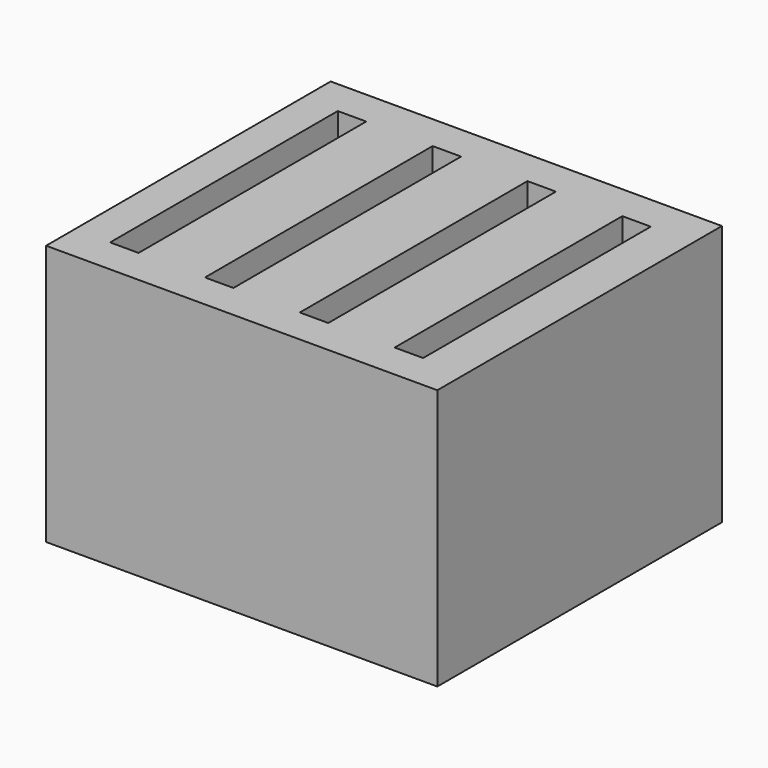
from build123d import *

# Parameters (mm, degrees)
BOX_W        = 2.4
BOX_H        = 24
BOX_DEPTH    = 22
BOX001_W     = 2.4
BOX001_H     = 24
BOX001_DEPTH = 22
BOX002_W     = 2.4
BOX002_H     = 24
BOX002_DEPTH = 22
BOX003_W     = 2.4
BOX003_H     = 24
BOX003_DEPTH = 22
BOX004_W     = 33
BOX004_H     = 30
BOX004_DEPTH = 22


with BuildPart() as slot:
    # Box → Box (new body)
    with BuildSketch(Plane.XY):
        with Locations((1.2, 12)):
            Rectangle(BOX_W, BOX_H)
    extrude(amount=BOX_DEPTH)


with BuildPart() as slot001:
    # Box001 → Box001 (new body)
    with BuildSketch(Plane(origin=(8, 0, 0), x_dir=(1, 0, 0), z_dir=(0, 0, 1))):
        with Locations((1.2, 12)):
            Rectangle(BOX001_W, BOX001_H)
    extrude(amount=BOX001_DEPTH)


with BuildPart() as slot002:
    # Box002 → Box002 (new body)
    with BuildSketch(Plane(origin=(16, 0, 0), x_dir=(1, 0, 0), z_dir=(0, 0, 1))):
        with Locations((1.2, 12)):
            Rectangle(BOX002_W, BOX002_H)
    extrude(amount=BOX002_DEPTH)


with BuildPart() as slots:
    # Box003 → Box003 (new body)
    with BuildSketch(Plane(origin=(24, 0, 0), x_dir=(1, 0, 0), z_dir=(0, 0, 1))):
        with Locations((1.2, 12)):
            Rectangle(BOX003_W, BOX003_H)
    extrude(amount=BOX003_DEPTH)

    # Fusion: union slot, slot001, slot002
    add(slot.part)
    add(slot001.part)
    add(slot002.part)


with BuildPart() as sd_holder:
    # Box004 → Box004 (new body)
    with BuildSketch(Plane(origin=(-3, -3, -3), x_dir=(1, 0, 0), z_dir=(0, 0, 1))):
        with Locations((16.5, 15)):
            Rectangle(BOX004_W, BOX004_H)
    extrude(amount=BOX004_DEPTH)

    # Cut: cut slots
    add(slots.part, mode=Mode.SUBTRACT)


with BuildPart() as sd_holder_1:
    # Cut placement: moved
    add(sd_holder.part.moved(Location((3, 3, 3))))


solid = sd_holder_1.part
